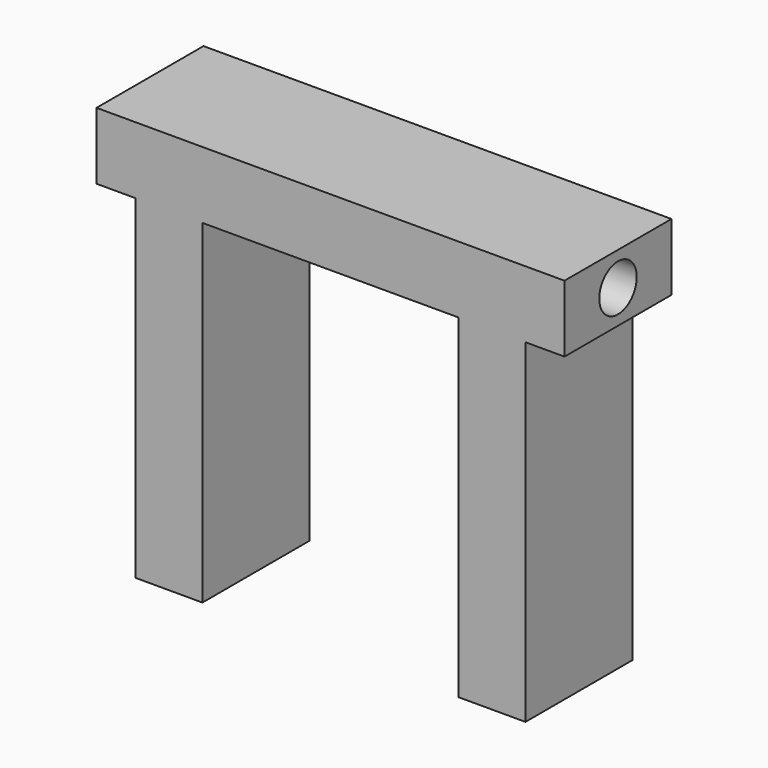
from build123d import *

# Parameters (mm, degrees)
F0_W     = 12.7
F0_H     = 63.5
F1_DEPTH = 25.4
F2_R     = 4.445
F3_DEPTH = 88.901


with BuildPart() as f1:
    # F0 (on Front) → F1 (new body)
    with BuildSketch(Plane.XZ):
        Polygon((37.03399, -6.35), (44.45, -6.35), (44.45, 6.35), (-44.45, 6.35), (-44.45, -6.35), (-37.03399, -6.35), (-24.33399, -6.35), (24.33399, -6.35), align=None)
        with Locations((30.68399, -38.1)):
            Rectangle(F0_W, F0_H)
        with Locations((-30.68399, -38.1)):
            Rectangle(F0_W, F0_H)
    extrude(amount=F1_DEPTH)

    # F2 (on face) → F3 (cut, through all)
    with BuildSketch(Plane(origin=(-44.45, 0, 0), x_dir=(0, -1, 0), z_dir=(-1, 0, 0))):
        with Locations((12.7, 0)):
            Circle(F2_R)
    extrude(amount=-F3_DEPTH, mode=Mode.SUBTRACT)


solid = f1.part
